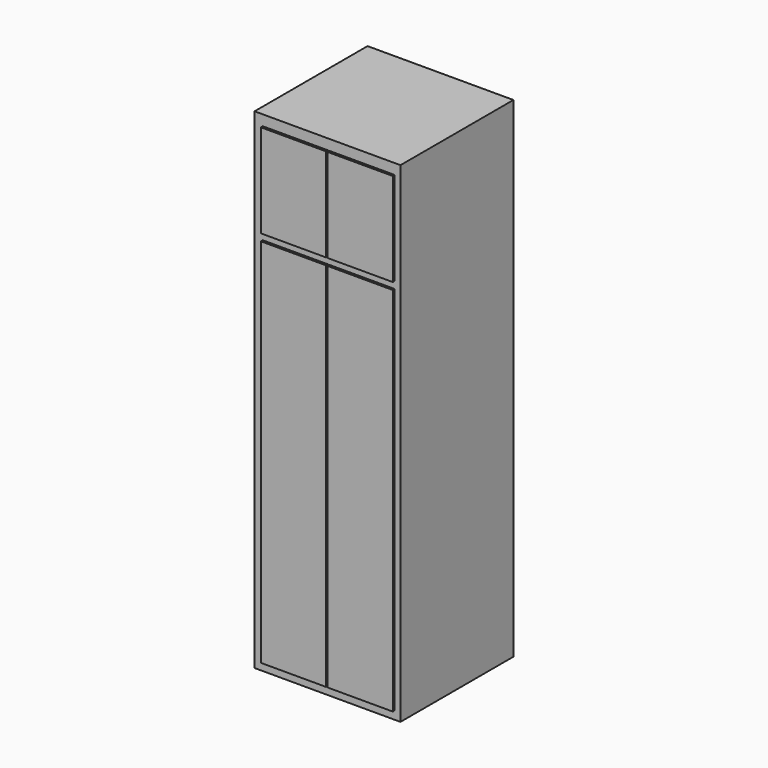
from build123d import *

# Parameters (mm, degrees)
F1_DEPTH = 605
F2_W     = 280
F2_H     = 400
F2_H_2   = 1590
F3_DEPTH = 10


with BuildPart() as f1:
    # F0 (on Front) → F1 (new body)
    with BuildSketch(Plane.XZ):
        Polygon((312.5, -689.526498), (312.5, 1285), (-312.5, 1285), (-312.5, -689.526498), (-312.5, -815), (312.5, -815), align=None)
    extrude(amount=F1_DEPTH)

    # F2 (on face) → F3 (join)
    with BuildSketch(Plane.XZ.offset(605)):
        with Locations((-137.5, 1040)):
            Rectangle(F2_W, F2_H)
        with Locations((147.5, 1040)):
            Rectangle(F2_W, F2_H)
        with Locations((-137.5, 15)):
            Rectangle(F2_W, F2_H_2)
        with Locations((147.5, 15)):
            Rectangle(F2_W, F2_H_2)
    extrude(amount=F3_DEPTH)


solid = f1.part
